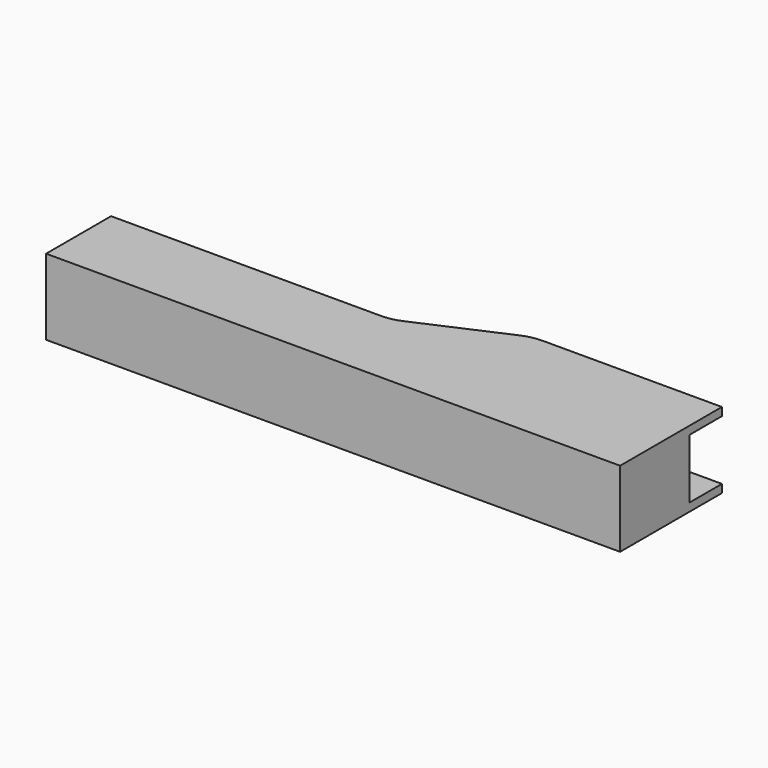
from build123d import *

# Parameters (mm, degrees)
F1_DEPTH  = 28
F2_W      = 211.909
F2_H      = 3
F3_DEPTH  = 15
F4_W      = 70
F4_H      = 3
F5_DEPTH  = 15
F7_DEPTH  = 3
F8_R      = 18.2181512029
F10_DEPTH = 3
F11_R     = 18.218


with BuildPart() as f1:
    # F0 (on Top) → F1 (new body)
    with BuildSketch(Plane.XY):
        with BuildLine():
            Line((23.2926856095, 0), (-81.7073143905, 0))
            Line((-81.7073143905, 0), (-81.7073143905, -15))
            Line((-81.7073143905, -15), (130.2926856095, -15))
            Line((130.2926856095, -15), (130.2926856095, 17))
            Line((130.2926856095, 17), (60.2926856095, 17))
            add(Edge.make_bspline(
                [(60.2926856095, 17), (47.0403235396, 17), (38.2657825675, 0), (23.2926856095, 0)],
                knots=[0, 0, 0, 0, 40.718546143, 40.718546143, 40.718546143, 40.718546143], degree=3))
        make_face()
        with BuildLine():
            Line((23.2926856095, 0), (-81.7073143905, 0))
            Line((-81.7073143905, 0), (-81.7073143905, -15))
            Line((-81.7073143905, -15), (130.2926856095, -15))
            Line((130.2926856095, -15), (130.2926856095, 17))
            Line((130.2926856095, 17), (60.2926856095, 17))
            add(Edge.make_bspline(
                [(60.2926856095, 17), (47.0403235396, 17), (38.2657825675, 0), (23.2926856095, 0)],
                knots=[0, 0, 0, 0, 40.718546143, 40.718546143, 40.718546143, 40.718546143], degree=3))
        make_face()
    extrude(amount=-F1_DEPTH)

    # F2 (on face) → F3 (join)
    with BuildSketch(Plane(origin=(0, 0, 0), x_dir=(-1, 0, 0), z_dir=(0, 1, 0))):
        with Locations((-24.2471856095, -1.5)):
            Rectangle(F2_W, F2_H)
        with Locations((-24.2471856095, -26.5)):
            Rectangle(F2_W, F2_H)
    extrude(amount=F3_DEPTH)

    # F4 (on face) → F5 (join)
    with BuildSketch(Plane(origin=(0, 17, 0), x_dir=(-1, 0, 0), z_dir=(0, 1, 0))):
        with Locations((-95.2926856095, -26.5)):
            Rectangle(F4_W, F4_H)
        with Locations((-95.2926856095, -1.5)):
            Rectangle(F4_W, F4_H)
    extrude(amount=F5_DEPTH)

    # F6 (on face) → F7 (join)
    with BuildSketch(Plane.XY):
        Polygon((64.7905170918, 0), (60.2926856095, 32), (21.7418372631, 15), (26.0446537286, -15), align=None)
    extrude(amount=-F7_DEPTH)

    # F8
    f8_edges = [f1.edges().sort_by_distance(p)[0] for p in [
        (60.292686, 32, -1.5),
        (21.741837, 15, -1.5),
    ]]
    fillet(f8_edges, radius=F8_R)

    # F9 (on face) → F10 (join)
    with BuildSketch(Plane(origin=(0, 0, -28), x_dir=(1, 0, 0), z_dir=(0, 0, -1))):
        Polygon((24.2926856095, -15), (60.2926856095, -32), (60.2926856095, -17), (52.3001670697, -15), align=None)
    extrude(amount=-F10_DEPTH)

    # F11
    f11_edges = [f1.edges().sort_by_distance(p)[0] for p in [
        (60.292686, 32, -26.5),
        (24.292686, 15, -26.5),
    ]]
    fillet(f11_edges, radius=F11_R)


solid = f1.part
